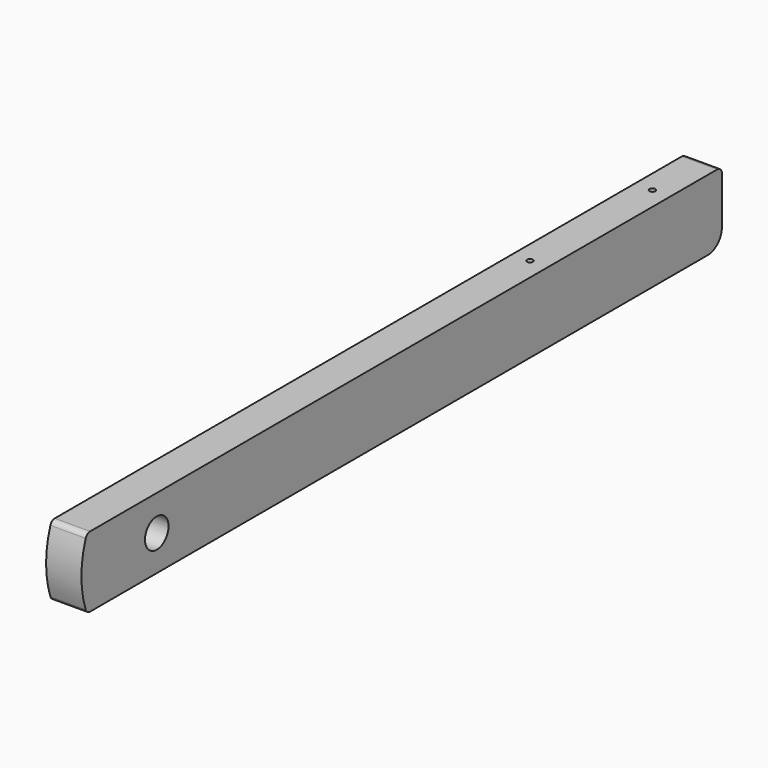
from build123d import *

# Parameters (mm, degrees)
F0_R     = 7.9375
F1_DEPTH = 9.525
F2_R     = 1.5875
F3_DEPTH = 25.4
F4_R     = 9.525
F5_R     = 3.175


with BuildPart() as f1:
    # F0 (on Right) → F1 (new body, symmetric)
    with BuildSketch(Plane.YZ):
        with BuildLine():
            Line((381, -19.05), (381, 19.05))
            Line((381, 19.05), (-47.09286, 19.05))
            ThreePointArc((-47.09286, 19.05), (-50.8, 0), (-47.09286, -19.05))
            Line((-47.09286, -19.05), (381, -19.05))
        make_face()
        Circle(F0_R, mode=Mode.SUBTRACT)
    extrude(amount=F1_DEPTH, both=True)

    # F2 (on face) → F3 (cut)
    with BuildSketch(Plane.XY.offset(19.05)):
        with Locations((0, 346.075)):
            Circle(F2_R)
        with Locations((0, 263.525)):
            Circle(F2_R)
    extrude(amount=-F3_DEPTH, mode=Mode.SUBTRACT)

    # F4
    f4_edges = [f1.edges().sort_by_distance(p)[0] for p in [
        (0, 381, -19.05),
    ]]
    fillet(f4_edges, radius=F4_R)

    # F5
    f5_edges = [f1.edges().sort_by_distance(p)[0] for p in [
        (0, 381, 19.05),
        (0, -47.09286, -19.05),
        (0, -47.09286, 19.05),
    ]]
    fillet(f5_edges, radius=F5_R)


solid = f1.part
